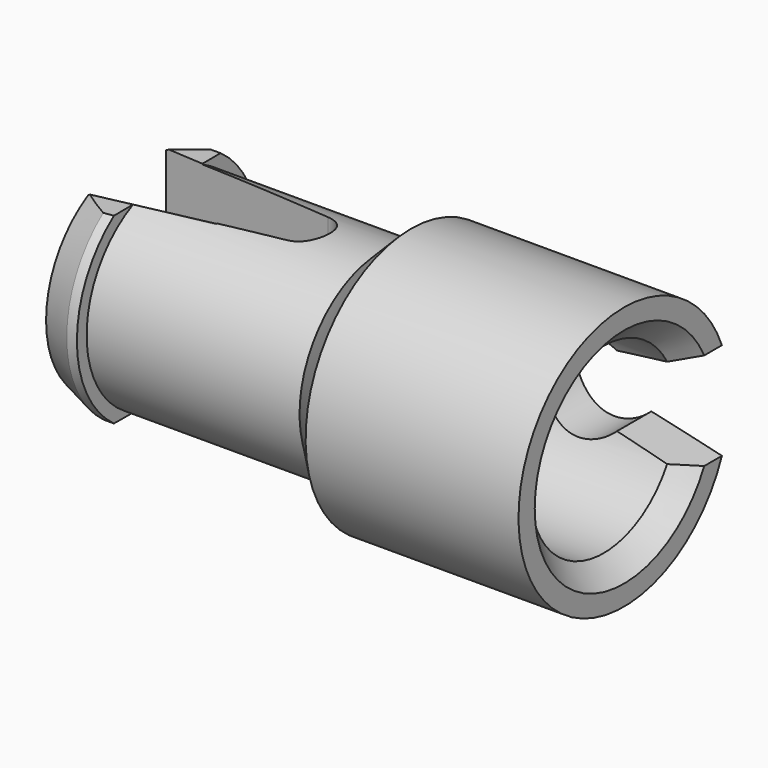
from build123d import *

# Parameters (mm, degrees)
F3_DEPTH  = 6.501
F5_DEPTH  = 50
F8_W      = 9.4140861183
F8_H      = 9.8263791297
F9_DEPTH  = 25
F12_W     = 14.8912463337
F12_H     = 11.3480030559
F13_DEPTH = 25


with BuildPart() as f1:
    # F0 (on Front) → F1 (revolve)
    with BuildSketch(Plane.XZ):
        Polygon((-12, 5), (-22.5, 5), (-22.5, 5.6), (-23, 5.6), (-24.5, 5), (-24.5, 2.5), (-10, 2.5), (-8, 4.5), (-1, 4.5), (0, 5.5), (0, 6.5), (-10.5, 6.5), align=None)
    revolve(axis=Axis((-0.2357512317, 0, 0), (1, 0, 0)))

    # F2 (on Front) → F3 (cut, through all)
    with BuildSketch(Plane.XZ):
        with BuildLine():
            Line((0, 2.4), (-3.6575932294, 1.75))
            ThreePointArc((-3.6575932294, 1.75), (-7.7, 0), (-3.6575932294, -1.75))
            Line((-3.6575932294, -1.75), (0, -2.4))
            Line((0, -2.4), (0, 2.4))
        make_face()
    extrude(amount=-F3_DEPTH, mode=Mode.SUBTRACT)

    # F4 (on Top) → F5 (cut, symmetric)
    with BuildSketch(Plane.XY):
        with BuildLine():
            Line((-15.5885848908, 1.2395342523), (-24.5, 2.4))
            Line((-24.5, 2.4), (-24.5, -2.4))
            Line((-24.5, -2.4), (-15.5885848908, -1.2395342523))
            ThreePointArc((-15.5885848908, -1.2395342523), (-14.5, 0), (-15.5885848908, 1.2395342523))
        make_face()
    extrude(amount=F5_DEPTH, both=True, mode=Mode.SUBTRACT)

    # F8 (on 3pt) → F9 (cut)
    with BuildSketch(Plane(origin=(-0.2560212454, -0.0401067578, -5.558750384), x_dir=(0.9989411003, -0.0003319376, -0.046006173), z_dir=(0.0460073704, 0.0072072396, 0.9989151003))):
        with Locations((-24.0980023518, 1.025695703)):
            Rectangle(F8_W, F8_H)
    extrude(amount=-F9_DEPTH, mode=Mode.SUBTRACT)

    # F12 (on 3pt) → F13 (cut)
    with BuildSketch(Plane(origin=(-0.2560212454, -0.0401067578, 5.558750384), x_dir=(0.9989411003, -0.0003319376, 0.046006173), z_dir=(0.0460073704, 0.0072072396, -0.9989151003))):
        with Locations((-25.9663937613, -0.8096385282)):
            Rectangle(F12_W, F12_H)
    extrude(amount=-F13_DEPTH, mode=Mode.SUBTRACT)


solid = f1.part
